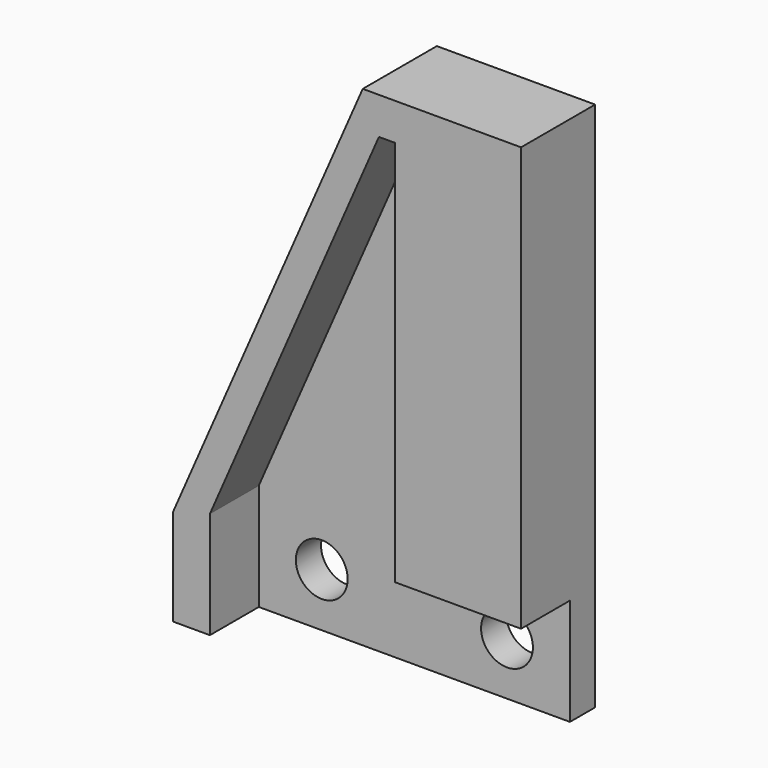
from build123d import *

# Parameters (mm, degrees)
F0_R     = 1.778
F1_DEPTH = 2.159
F2_DEPTH = 6.35


with BuildPart() as f1:
    # F0 (on Front) → F1 (new body)
    with BuildSketch(Plane.XZ):
        Polygon((-13.906726, -6.464459), (-13.906726, -13.791269), (7.429274, -13.791269), (7.429274, -6.464459), (-1.206726, -6.464459), align=None)
        with Locations((-9.588726, -10.127864)):
            Circle(F0_R, mode=Mode.SUBTRACT)
        with Locations((3.111274, -10.127864)):
            Circle(F0_R, mode=Mode.SUBTRACT)
        Polygon((-16.446726, -13.791269), (-13.906726, -13.791269), (-13.906726, -6.464459), (-16.126592, -6.464459), (-16.446726, -7.197061), align=None)
        Polygon((-16.126592, -6.464459), (-13.906726, -6.464459), (-2.316659, 20.058554), (-1.206726, 20.058554), (-1.206726, -6.464459), (7.429274, -6.464459), (7.429274, 22.598554), (-1.206726, 22.598554), (-3.426592, 22.598554), (-13.906726, -1.384459), align=None)
        Polygon((-2.316659, 20.058554), (-13.906726, -6.464459), (-1.206726, -6.464459), (-1.206726, 20.058554), align=None)
    extrude(amount=F1_DEPTH)

    # F0 (on Front) → F2 (join)
    with BuildSketch(Plane.XZ):
        Polygon((-16.126592, -6.464459), (-13.906726, -6.464459), (-2.316659, 20.058554), (-1.206726, 20.058554), (-1.206726, -6.464459), (7.429274, -6.464459), (7.429274, 22.598554), (-1.206726, 22.598554), (-3.426592, 22.598554), (-13.906726, -1.384459), align=None)
        Polygon((-16.446726, -13.791269), (-13.906726, -13.791269), (-13.906726, -6.464459), (-16.126592, -6.464459), (-16.446726, -7.197061), align=None)
        Polygon((-16.126592, -6.464459), (-13.906726, -6.464459), (-2.316659, 20.058554), (-1.206726, 20.058554), (-1.206726, -6.464459), (7.429274, -6.464459), (7.429274, 22.598554), (-1.206726, 22.598554), (-3.426592, 22.598554), (-13.906726, -1.384459), align=None)
    extrude(amount=F2_DEPTH)


solid = f1.part
